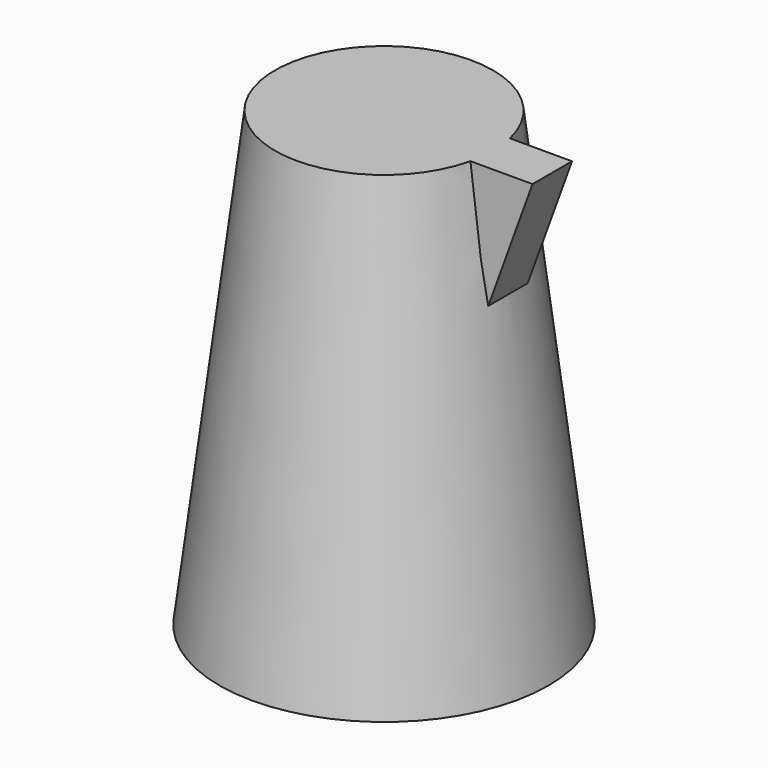
from build123d import *

# Parameters (mm, degrees)
F0_R     = 100
F1_DEPTH = 275
F1_TAPER = 7
F3_DEPTH = 15


with BuildPart() as f1:
    # F0 (on Top) → F1 (new body)
    with BuildSketch(Plane.XY):
        Circle(F0_R)
    extrude(amount=F1_DEPTH, taper=F1_TAPER)

    # F2 (on Front) → F3 (join, symmetric)
    with BuildSketch(Plane.XZ):
        Polygon((66.2342457517, 275), (61.2342457517, 275), (75.3152948474, 201.0407902351), align=None)
        Polygon((102.2342457517, 275), (66.2342457517, 275), (75.3152948474, 201.0407902351), align=None)
    extrude(amount=F3_DEPTH, both=True)


solid = f1.part
